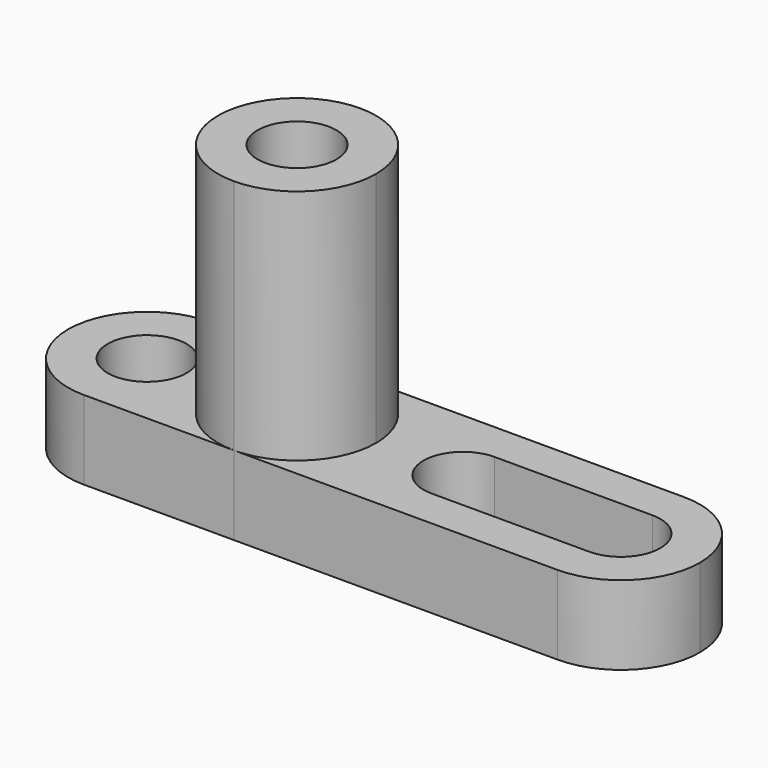
from build123d import *

# Parameters (mm, degrees)
F0_W      = 101.6
F0_H      = 25.4
F1_DEPTH  = 12.7
F3_DEPTH  = 38.1
F2_R      = 6.35
F2_R_2    = 12.7
F4_DEPTH  = 25.4
F5_R      = 6.35
F6_DEPTH  = 50.8
F7_DEPTH  = 12.7
F9_DEPTH  = 12.7
F11_DEPTH = 25.4
F13_DEPTH = 25.4


with BuildPart() as f1:
    # F0 (on Top) → F1 (new body)
    with BuildSketch(Plane.XY):
        with Locations((50.8, 12.7)):
            Rectangle(F0_W, F0_H)
    extrude(amount=F1_DEPTH)

    # F2 (on face) → F3 (join)
    with BuildSketch(Plane.XY.offset(12.7)):
        with BuildLine():
            ThreePointArc((36.8164852262, 0), (45.7967413472, 3.7197438789), (49.5164852262, 12.7))
            ThreePointArc((49.5164852262, 12.7), (45.7967413472, 21.6802561211), (36.8164852262, 25.4))
            ThreePointArc((36.8164852262, 25.4), (24.1164852262, 12.7), (36.8164852262, 0))
        make_face()
    extrude(amount=F3_DEPTH)

    # F2 (on face) → F4 (cut)
    with BuildSketch(Plane.XY.offset(12.7)):
        with Locations((12.7, 12.7)):
            Circle(F2_R)
        with Locations((36.8164852262, 12.7)):
            Circle(F2_R_2)
    extrude(amount=-F4_DEPTH, mode=Mode.SUBTRACT)

    # F5 (on face) → F6 (cut)
    with BuildSketch(Plane.XY.offset(50.8)):
        with Locations((36.8164852262, 12.7)):
            Circle(F5_R)
    extrude(amount=-F6_DEPTH, mode=Mode.SUBTRACT)


with BuildPart() as f7:
    # F7 (new): a face of the model
    f7_faces = [f1.part.faces().sort_by_distance(p)[0] for p in [
        (45.5427413472, 21.4262561211, 12.7),
    ]]
    extrude(f7_faces, amount=F7_DEPTH)


with BuildPart() as f1_1:
    add(f1.part)

    # F8 (on face) → F9 (cut)
    with BuildSketch(Plane.XY.offset(12.7)):
        with BuildLine():
            ThreePointArc((63.5, 6.35), (67.9901280605, 8.2098719395), (69.85, 12.7))
            ThreePointArc((69.85, 12.7), (67.9901280605, 17.1901280605), (63.5, 19.05))
            ThreePointArc((63.5, 19.05), (57.15, 12.7), (63.5, 6.35))
        make_face()
        with BuildLine():
            ThreePointArc((63.5, 19.05), (67.9901280605, 17.1901280605), (69.85, 12.7))
            ThreePointArc((69.85, 12.7), (67.9901280605, 8.2098719395), (63.5, 6.35))
            Line((63.5, 6.35), (88.9, 6.35))
            ThreePointArc((88.9, 6.35), (82.55, 12.7), (88.9, 19.05))
            Line((88.9, 19.05), (63.5, 19.05))
        make_face()
        with BuildLine():
            ThreePointArc((95.25, 12.7), (93.3901280605, 17.1901280605), (88.9, 19.05))
            ThreePointArc((88.9, 19.05), (82.55, 12.7), (88.9, 6.35))
            ThreePointArc((88.9, 6.35), (93.3901280605, 8.2098719395), (95.25, 12.7))
        make_face()
    extrude(amount=-F9_DEPTH, mode=Mode.SUBTRACT)

    # F10 (on face) → F11 (cut)
    with BuildSketch(Plane.XY.offset(12.7)):
        with BuildLine():
            ThreePointArc((0, 12.7), (3.7197438789, 21.6802561211), (12.7, 25.4))
            Line((12.7, 25.4), (0, 25.4))
            Line((0, 25.4), (0, 12.7))
        make_face()
        with BuildLine():
            ThreePointArc((12.7000005348, 0), (3.719744068, 3.7197436899), (0, 12.7))
            Line((0, 12.7), (0, 0))
            Line((0, 0), (12.7000005348, 0))
        make_face()
    extrude(amount=-F11_DEPTH, mode=Mode.SUBTRACT)

    # F12 (on face) → F13 (cut)
    with BuildSketch(Plane.XY.offset(12.7)):
        with BuildLine():
            ThreePointArc((88.9, 25.4), (97.8802561211, 21.6802561211), (101.6, 12.7))
            Line((101.6, 12.7), (101.6, 25.4))
            Line((101.6, 25.4), (88.9, 25.4))
        make_face()
        with BuildLine():
            ThreePointArc((101.6, 12.7), (97.8802561211, 3.7197438789), (88.9, 0))
            Line((88.9, 0), (101.6, 0))
            Line((101.6, 0), (101.6, 12.7))
        make_face()
    extrude(amount=-F13_DEPTH, mode=Mode.SUBTRACT)


solid = Compound([f7.part, f1_1.part])
